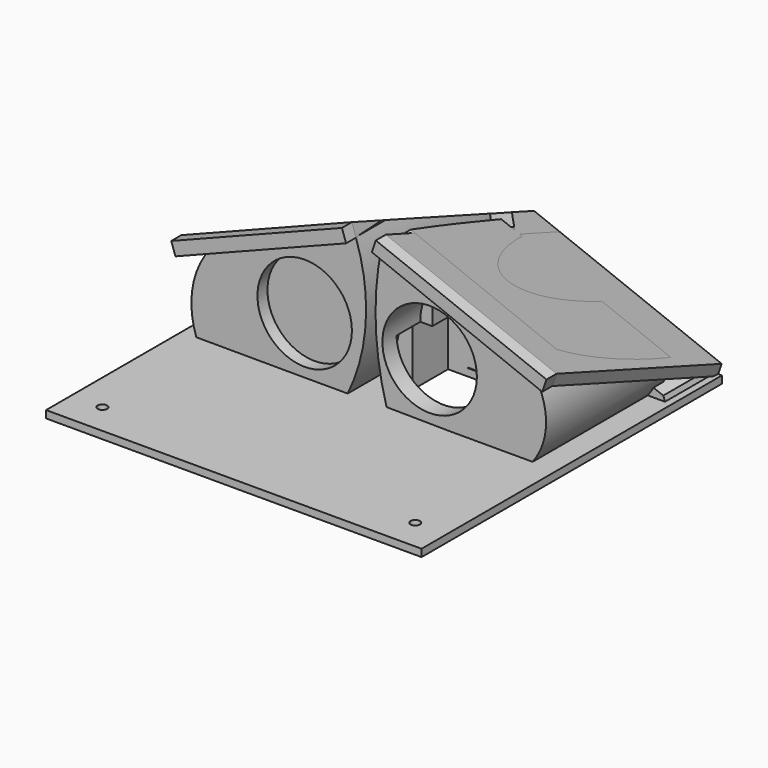
from build123d import *

# Parameters (mm, degrees)
F0_W      = 152.4
F0_H      = 152.4
F1_DEPTH  = 2.9972
F4_DEPTH  = 101.6
F7_W      = 174.6290246956
F7_H      = 71.9060692936
F8_DEPTH  = 25.4
F9_W      = 190.2633160353
F9_H      = 69.5802671835
F10_DEPTH = 25.4
F11_R     = 19.1702169235
F12_DEPTH = 63.5
F16_W     = 18.951266981
F16_H     = 64.5917784214
F17_DEPTH = 38.1
F14_W     = 142.2051836274
F14_H     = 140.7781180757
F18_DEPTH = 25.4
F13_W     = 73.825603469
F13_H     = 98.4964409136
F19_DEPTH = 25.4
F15_W     = 89.3880832009
F15_H     = 85.1461850107
F20_DEPTH = 25.4
F21_W     = 107.8529264778
F21_H     = 46.1024940014
F22_DEPTH = 25.4
F23_DEPTH = 25.4
F24_DEPTH = 5.08
F26_DEPTH = 5.08
F28_DEPTH = 5.08
F30_DEPTH = 25.4
F31_W     = 57.15
F31_H     = 30.274399312
F32_DEPTH = 25.4
F33_R     = 1.905
F34_DEPTH = 25.4


with BuildPart() as f1:
    # F0 (on Top) → F1 (new body)
    with BuildSketch(Plane.XY):
        with Locations((76.2, 76.2)):
            Rectangle(F0_W, F0_H)
    extrude(amount=F1_DEPTH)

    # F3 (on face) → F4 (join)
    with BuildSketch(Plane(origin=(0, 133.6093050538, -48.6298100606), x_dir=(-1, 0, 0), z_dir=(0, 0.9396926208, -0.3420201433))):
        Polygon((-70.9807611624, 79.6961235199), (-1.7149597029, 54.1526610348), (0, 58.8030900187), (-69.2658014596, 84.3465525037), align=None)
        Polygon((-152.305200696, 58.8030900187), (-150.5902409931, 54.1526610348), (-81.3244395336, 79.6961235199), (-83.0393992364, 84.3465525037), align=None)
    extrude(amount=-F4_DEPTH)

    # F7 (on offset) → F8 (cut)
    with BuildSketch(Plane(origin=(0, 152.4, 0), x_dir=(-1, 0, 0), z_dir=(0, 1, 0))):
        with Locations((-80.1802317146, 12.3004158959)):
            Rectangle(F7_W, F7_H)
    extrude(amount=F8_DEPTH, mode=Mode.SUBTRACT)

    # F9 (on offset) → F10 (cut)
    with BuildSketch(Plane.XZ.offset(-68.58)):
        with Locations((67.1265348792, 43.6987527646)):
            Rectangle(F9_W, F9_H)
    extrude(amount=F10_DEPTH, mode=Mode.SUBTRACT)

    # F11 (on offset) → F12 (join)
    with BuildSketch(Plane.XZ.offset(-68.58)):
        with BuildLine():
            Line((6.1260624789, 3.123100847), (67.5539821386, 2.9584141448))
            ThreePointArc((67.5539821386, 2.9584141448), (74.9057644418, 31.1193454864), (70.8477050066, 59.9398054183))
            Line((70.8477050066, 59.9398054183), (12.3841362074, 37.2131243348))
            ThreePointArc((12.3841362074, 37.2131243348), (4.6825185029, 21.0075238057), (6.1260624789, 3.123100847))
        make_face()
        with Locations((50.0972531736, 26.014469564)):
            Circle(F11_R, mode=Mode.SUBTRACT)
        with BuildLine():
            Line((141.0039812326, 36.8837527931), (81.3766415837, 60.1067829749))
            ThreePointArc((81.3766415837, 60.1067829749), (78.9323729869, 31.5763709769), (83.3530564642, 3.2847394342))
            Line((83.3530564642, 3.2847394342), (142.3214673996, 2.6290433016))
            ThreePointArc((142.3214673996, 2.6290433016), (148.0688436071, 20.0027867534), (141.0039812326, 36.8837527931))
        make_face()
        with Locations((100.8205711842, 26.014469564)):
            Circle(F11_R, mode=Mode.SUBTRACT)
    extrude(amount=-F12_DEPTH)

    # F16 (on face) → F17 (join)
    with BuildSketch(Plane.XY.offset(2.9972)):
        with Locations((77.0484805222, 120.1041107893)):
            Rectangle(F16_W, F16_H)
    extrude(amount=F17_DEPTH)

    # F14 (on face) → F18 (cut)
    with BuildSketch(Plane(origin=(-19.0890698574, 17.7041690946, 48.6418048176), x_dir=(0.9382354929, 0.1183380601, 0.325131148), z_dir=(-0.3459973408, 0.3208954378, 0.8816529692))):
        with Locations((91.4483045925, 70.3890590378)):
            Rectangle(F14_W, F14_H)
    extrude(amount=F18_DEPTH, mode=Mode.SUBTRACT)

    # F13 (on face) → F19 (cut)
    with BuildSketch(Plane(origin=(37.3221590008, 34.6144583712, 95.1024427615), x_dir=(0.9382354929, -0.1183380601, -0.325131148), z_dir=(0.3459973408, 0.3208954378, 0.8816529692))):
        with Locations((85.6396305334, 91.5298976189)):
            Rectangle(F13_W, F13_H)
    extrude(amount=F19_DEPTH, mode=Mode.SUBTRACT)

    # F15 (on face) → F20 (cut)
    with BuildSketch(Plane(origin=(37.3221590008, 34.6144583712, 95.1024427615), x_dir=(0.9382354929, -0.1183380601, -0.325131148), z_dir=(0.3459973408, 0.3208954378, 0.8816529692))):
        with Locations((47.4748036359, 77.4410758168)):
            Rectangle(F15_W, F15_H)
    extrude(amount=F20_DEPTH, mode=Mode.SUBTRACT)

    # F21 (on face) → F22 (cut)
    with BuildSketch(Plane(origin=(37.3221590008, 34.6144583712, 95.1024427615), x_dir=(0.9382354929, -0.1183380601, -0.325131148), z_dir=(0.3459973408, 0.3208954378, 0.8816529692))):
        with Locations((43.8093887642, 129.4138580561)):
            Rectangle(F21_W, F21_H)
    extrude(amount=F22_DEPTH, mode=Mode.SUBTRACT)

    # F25 (on face) → F26 (join)
    with BuildSketch(Plane.XZ.offset(-68.58)):
        Polygon((0, 37.6158626848), (1.7149597029, 32.6669795277), (11.9381580946, 36.6789883131), (70.8914748875, 59.8147248838), (70.9807611624, 59.8497645364), (69.2658014596, 64.7986476935), align=None)
    extrude(amount=F26_DEPTH)

    # F27 (on face) → F28 (join)
    with BuildSketch(Plane.XZ.offset(-68.58)):
        Polygon((83.0393992364, 64.7986476935), (81.4091216737, 60.0941329705), (150.5902409931, 32.6669795277), (152.305200696, 37.6158626848), align=None)
    extrude(amount=F28_DEPTH)

    # F29 (on face) → F30 (join)
    with BuildSketch(Plane(origin=(0, 152.4, 0), x_dir=(-1, 0, 0), z_dir=(0, 1, 0))):
        Polygon((-148.9539146423, 4.9975402653), (-150.1126885414, 1.5212437138), (-2.1217786707, 1.3557064813), (-2.1217786707, 5.3286161274), (-76.7793878913, 32.3112979531), align=None)
    extrude(amount=-F30_DEPTH)

    # F31 (on face) → F32 (cut)
    with BuildSketch(Plane(origin=(0, 0, 0), x_dir=(1, 0, 0), z_dir=(0, 0, -1))):
        with Locations((106.965664196, -90.8361260137)):
            Rectangle(F31_W, F31_H)
    extrude(amount=-F32_DEPTH, mode=Mode.SUBTRACT)

    # F33 (on face) → F34 (cut)
    with BuildSketch(Plane.XY.offset(2.9972)):
        with Locations((12.7, 12.7)):
            Circle(F33_R)
        with Locations((139.7, 12.7)):
            Circle(F33_R)
    extrude(amount=-F34_DEPTH, mode=Mode.SUBTRACT)


with BuildPart() as f23:
    # F11 (on offset) → F23 (new body)
    with BuildSketch(Plane.XZ.offset(-68.58)):
        with Locations((50.0972531736, 26.014469564)):
            Circle(F11_R)
    extrude(amount=-F23_DEPTH)

    # F11 (on offset) → F24 (cut)
    with BuildSketch(Plane.XZ.offset(-68.58)):
        with Locations((50.0972531736, 26.014469564)):
            Circle(F11_R)
    extrude(amount=-F24_DEPTH, mode=Mode.SUBTRACT)


solid = Compound([f1.part, f23.part])
